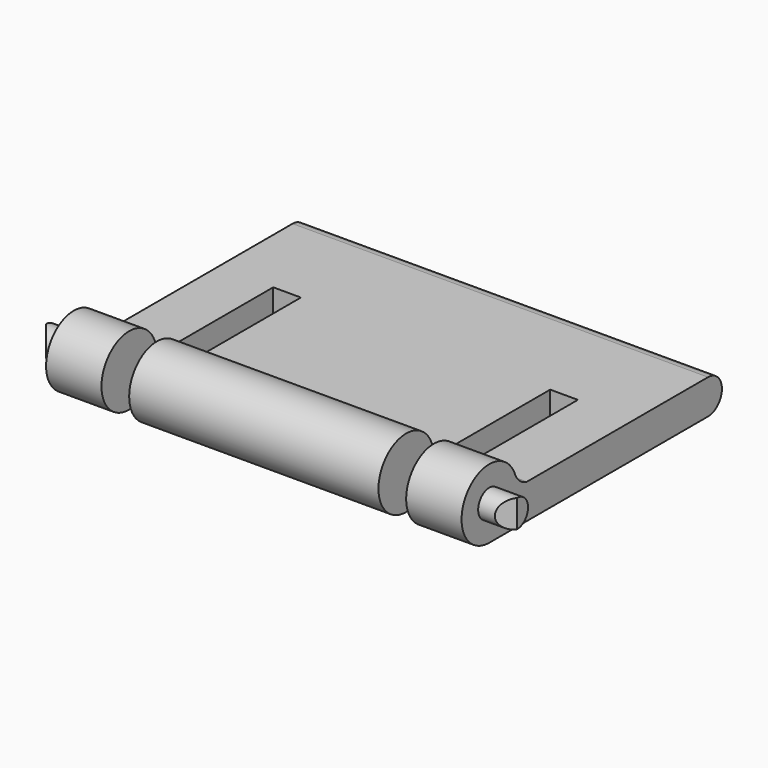
from build123d import *

# Parameters (mm, degrees)
F1_DEPTH = 15
F2_R     = 1
F3_DEPTH = 17
F5_W     = 2
F5_H     = 18.8568213596
F6_DEPTH = 12.5


with BuildPart() as f1:
    # F0 (on Right) → F1 (new body, symmetric)
    with BuildSketch(Plane.YZ):
        with BuildLine():
            Line((2.5, 0), (1, 0))
            ThreePointArc((1, 0), (0.7071067812, -0.7071067812), (0, -1))
            Line((0, -1), (0, -2.5))
            ThreePointArc((0, -2.5), (1.767766953, -1.767766953), (2.5, 0))
        make_face()
        with BuildLine():
            ThreePointArc((0, -1), (-0.7071067812, 0.7071067812), (1, 0))
            Line((1, 0), (2.5, 0))
            ThreePointArc((2.5, 0), (2.4637418621, 0.4242358271), (2.3560191704, 0.8361660533))
            ThreePointArc((2.3560191704, 0.8361660533), (2.32783074, 0.9037284298), (2.3030468589, 0.9726125467))
            ThreePointArc((2.3030468589, 0.9726125467), (-2.0834504274, 1.3817504538), (0, -2.5))
            Line((0, -2.5), (0, -1))
        make_face()
        with BuildLine():
            Line((3.3880661343, 0), (2.5, 0))
            ThreePointArc((2.5, 0), (1.767766953, -1.767766953), (0, -2.5))
            Line((0, -2.5), (19.75, -2.5))
            ThreePointArc((19.75, -2.5), (18.5, -1.25), (19.75, 0))
            Line((19.75, 0), (3.3880661343, 0))
        make_face()
        with BuildLine():
            ThreePointArc((2.3560191704, 0.8361660533), (2.4637418621, 0.4242358271), (2.5, 0))
            Line((2.5, 0), (3.3880661343, 0))
            ThreePointArc((3.3880661343, 0), (2.7720196419, 0.2946285479), (2.3560191704, 0.8361660533))
        make_face()
        with BuildLine():
            ThreePointArc((2.3030468589, 0.9726125467), (2.32783074, 0.9037284298), (2.3560191704, 0.8361660533))
            ThreePointArc((2.3560191704, 0.8361660533), (2.3305318015, 0.9047770567), (2.3030468589, 0.9726125467))
        make_face()
        with BuildLine():
            ThreePointArc((19.75, 0), (18.5, -1.25), (19.75, -2.5))
            Line((19.75, -2.5), (19.75, 0))
        make_face()
        with BuildLine():
            Line((19.75, 0), (19.75, -2.5))
            ThreePointArc((19.75, -2.5), (20.6338834765, -2.1338834765), (21, -1.25))
            ThreePointArc((21, -1.25), (20.6338834765, -0.3661165235), (19.75, 0))
        make_face()
    extrude(amount=F1_DEPTH, both=True)

    # F2 (on Right) → F3 (join, symmetric)
    with BuildSketch(Plane.YZ):
        Circle(F2_R)
    extrude(amount=F3_DEPTH, both=True)

    # F4 (on Top) + F5 (on Top) → F6 (cut, symmetric)
    with BuildSketch(Plane.XY):
        Polygon((-14.564535037, -3.0443312038), (-17, 0), (-18.738245276, 0), (-18.738245276, -3.0443312038), align=None)
        Polygon((18.738245276, -3.0443312038), (18.738245276, 0), (17, 0), (14.564535037, -3.0443312038), align=None)
    with BuildSketch(Plane.XY):
        with Locations((-10, 3.5715893202)):
            Rectangle(F5_W, F5_H)
        with Locations((10, 3.5715893202)):
            Rectangle(F5_W, F5_H)
    extrude(amount=F6_DEPTH, both=True, mode=Mode.SUBTRACT)


solid = f1.part
